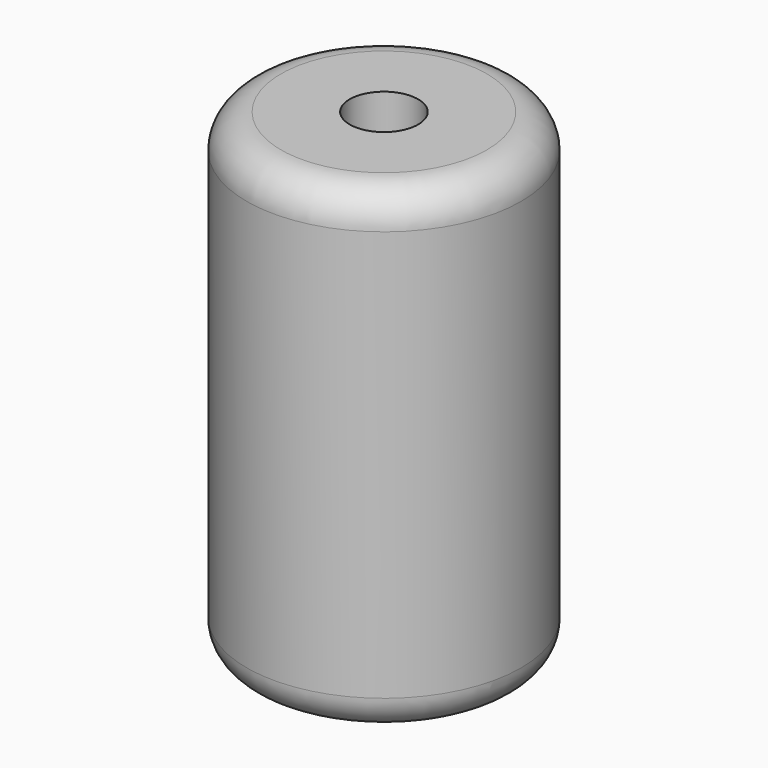
from build123d import *

# Parameters (mm, degrees)
F0_R     = 50.921014
F1_DEPTH = 177.8
F2_R     = 12.7
F5_D     = 25.4
F5_DEPTH = 177.8


with BuildPart() as f1:
    # F0 (on Top) → F1 (new body)
    with BuildSketch(Plane.XY):
        Circle(F0_R)
    extrude(amount=F1_DEPTH)

    # F2
    f2_edges = [f1.edges().sort_by_distance(p)[0] for p in [
        (-50.921014, 0, 0),
        (-50.921014, 0, 177.8),
    ]]
    fillet(f2_edges, radius=F2_R)

    # F5
    with Locations(Plane(origin=(0, 0, 0), x_dir=(1, 0, 0), z_dir=(0, 0, -1))):
        with Locations((0, 0)):
            Hole(F5_D / 2, depth=F5_DEPTH)


solid = f1.part
